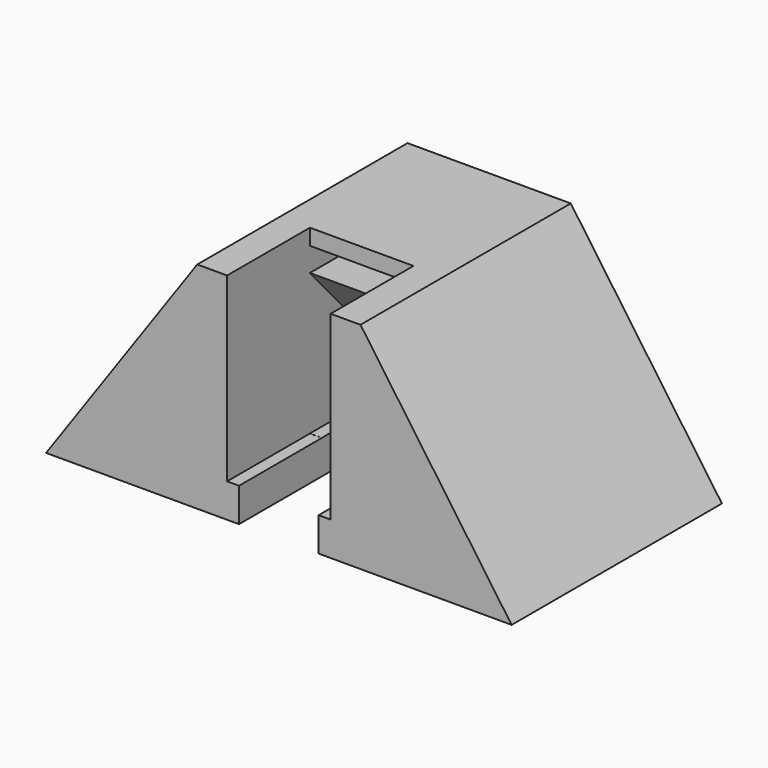
from build123d import *

# Parameters (mm, degrees)
F0_W      = 58.45
F0_H      = 33
F1_DEPTH  = 27
F3_DEPTH  = 33
F4_W      = 10
F4_H      = 13
F5_DEPTH  = 27
F6_W      = 13
F6_H      = 13
F7_DEPTH  = 22.75
F8_W      = 13
F8_H      = 3
F9_DEPTH  = 5
F10_W     = 10
F10_H     = 10
F11_DEPTH = 33
F13_DEPTH = 6.5


with BuildPart() as f1:
    # F0 (on Top) → F1 (new body)
    with BuildSketch(Plane.XY):
        Rectangle(F0_W, F0_H)
    extrude(amount=F1_DEPTH)

    # F2 (on face) → F3 (cut)
    with BuildSketch(Plane.XZ.offset(16.5)):
        Polygon((-29.225, 27), (-29.225, 0), (-10.249082, 27), align=None)
        Polygon((29.225, 27), (10.249082, 27), (29.225, 0), align=None)
    extrude(amount=-F3_DEPTH, mode=Mode.SUBTRACT)

    # F4 (on face) → F5 (cut)
    with BuildSketch(Plane.XY.offset(27)):
        with Locations((0, -10)):
            Rectangle(F4_W, F4_H)
    extrude(amount=-F5_DEPTH, mode=Mode.SUBTRACT)

    # F6 (on face) → F7 (cut)
    with BuildSketch(Plane.XY.offset(27)):
        with Locations((0, -10)):
            Rectangle(F6_W, F6_H)
    extrude(amount=-F7_DEPTH, mode=Mode.SUBTRACT)

    # F8 (on face) → F9 (cut)
    with BuildSketch(Plane.XZ.offset(3.5)):
        with Locations((0, 23.5)):
            Rectangle(F8_W, F8_H)
    extrude(amount=-F9_DEPTH, mode=Mode.SUBTRACT)

    # F10 (on face) → F11 (cut)
    with BuildSketch(Plane.XZ.offset(3.5)):
        with Locations((0, 5)):
            Rectangle(F10_W, F10_H)
    extrude(amount=-F11_DEPTH, mode=Mode.SUBTRACT)

    # F12 (on Right) → F13 (cut, symmetric)
    with BuildSketch(Plane.YZ):
        Polygon((-3.5, 22), (-3.5, 4.25939), (8.41, 4.25939), (8.41, 8.67939), align=None)
    extrude(amount=F13_DEPTH, both=True, mode=Mode.SUBTRACT)


solid = f1.part
